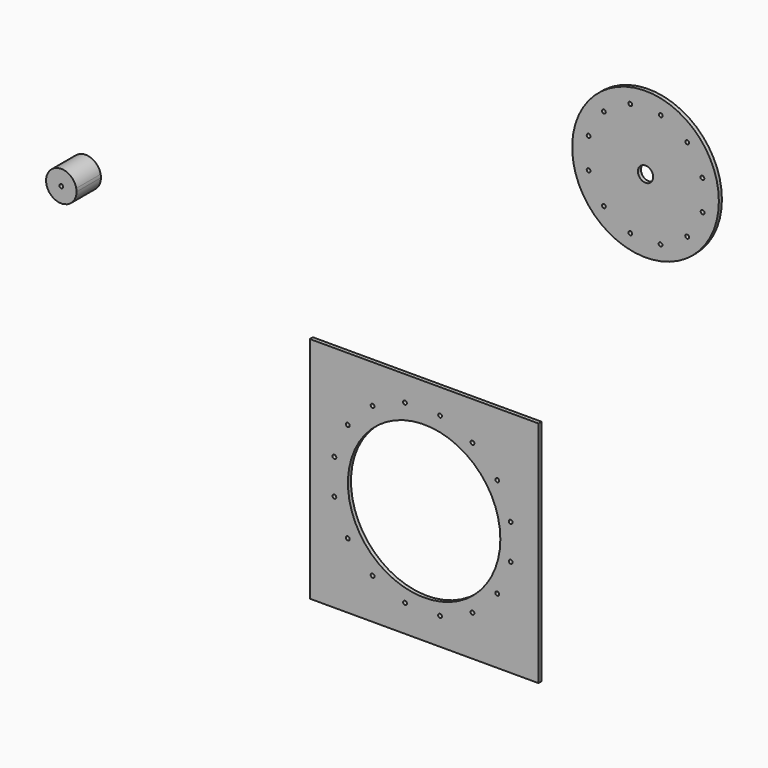
from build123d import *

# Parameters (mm, degrees)
F0_W     = 381
F0_H     = 381
F0_R     = 3.175
F0_R_2   = 127
F1_DEPTH = 6.35
F0_R_3   = 122.2375
F0_R_4   = 12.7
F2_DEPTH = 6.35
F3_DEPTH = 50.8


with BuildPart() as f1:
    # F0 (on Front) → F1 (new body)
    with BuildSketch(Plane.XZ):
        with Locations((0.7829964073, -456.6002925593)):
            Rectangle(F0_W, F0_H)
        with Locations((-126.444780497, -538.0222049332)):
            Circle(F0_R, mode=Mode.SUBTRACT)
        with Locations((-148.8101112058, -484.027520209)):
            Circle(F0_R, mode=Mode.SUBTRACT)
        with Locations((-148.8101112058, -425.5840946062)):
            Circle(F0_R, mode=Mode.SUBTRACT)
        with Locations((-126.444780497, -371.5894098819)):
            Circle(F0_R, mode=Mode.SUBTRACT)
        with Locations((-31.1243532132, -601.7132782016)):
            Circle(F0_R, mode=Mode.SUBTRACT)
        with Locations((27.3190723895, -601.7132782016)):
            Circle(F0_R, mode=Mode.SUBTRACT)
        with Locations((-85.1190379375, -579.3479474927)):
            Circle(F0_R, mode=Mode.SUBTRACT)
        with Locations((81.3137571138, -579.3479474927)):
            Circle(F0_R, mode=Mode.SUBTRACT)
        with Locations((122.6394996733, -538.0222049332)):
            Circle(F0_R, mode=Mode.SUBTRACT)
        with Locations((0.7829964073, -456.6002925593)):
            Circle(F0_R_2, mode=Mode.SUBTRACT)
        with Locations((145.0048303821, -484.027520209)):
            Circle(F0_R, mode=Mode.SUBTRACT)
        with Locations((145.0048303821, -425.5840946062)):
            Circle(F0_R, mode=Mode.SUBTRACT)
        with Locations((-85.1190379375, -330.2636673224)):
            Circle(F0_R, mode=Mode.SUBTRACT)
        with Locations((-31.1243532132, -307.8983366136)):
            Circle(F0_R, mode=Mode.SUBTRACT)
        with Locations((27.3190723895, -307.8983366136)):
            Circle(F0_R, mode=Mode.SUBTRACT)
        with Locations((122.6394996733, -371.5894098819)):
            Circle(F0_R, mode=Mode.SUBTRACT)
        with Locations((81.3137571138, -330.2636673224)):
            Circle(F0_R, mode=Mode.SUBTRACT)
    extrude(amount=F1_DEPTH)


with BuildPart() as f2:
    # F0 (on Front) → F2 (new body)
    with BuildSketch(Plane.XZ):
        with Locations((369.7115465092, 157.6269509957)):
            Circle(F0_R_3)
        with Locations((300.3174648495, 88.2328498944)):
            Circle(F0_R, mode=Mode.SUBTRACT)
        with Locations((274.917460741, 132.2269427787)):
            Circle(F0_R, mode=Mode.SUBTRACT)
        with Locations((344.3115506177, 62.8328581114)):
            Circle(F0_R, mode=Mode.SUBTRACT)
        with Locations((394.7093425007, 62.6030864476)):
            Circle(F0_R, mode=Mode.SUBTRACT)
        with Locations((439.0526575442, 88.6178002691)):
            Circle(F0_R, mode=Mode.SUBTRACT)
        with Locations((369.7115465092, 157.6269509957)):
            Circle(F0_R_4, mode=Mode.SUBTRACT)
        with Locations((464.8548615527, 132.8416648172)):
            Circle(F0_R, mode=Mode.SUBTRACT)
        with Locations((274.917460741, 183.0269592126)):
            Circle(F0_R, mode=Mode.SUBTRACT)
        with Locations((300.3174648495, 227.0210520969)):
            Circle(F0_R, mode=Mode.SUBTRACT)
        with Locations((464.5056370214, 183.0269509957)):
            Circle(F0_R, mode=Mode.SUBTRACT)
        with Locations((344.3115506177, 252.42104388)):
            Circle(F0_R, mode=Mode.SUBTRACT)
        with Locations((395.1115465092, 252.4210415079)):
            Circle(F0_R, mode=Mode.SUBTRACT)
        with Locations((439.1056370214, 227.0210415079)):
            Circle(F0_R, mode=Mode.SUBTRACT)
    extrude(amount=F2_DEPTH)


with BuildPart() as f3:
    # F0 (on Front) → F3 (new body)
    with BuildSketch(Plane.XZ):
        with BuildLine():
            Line((-565.2114957464, -146.3226223595), (-543.4135428894, -141.9867399527))
            ThreePointArc((-543.4135428894, -141.9867399527), (-573.2807831909, -122.0300880097), (-593.2374351339, -151.8973283111))
            Line((-593.2374351339, -151.8973283111), (-571.439482277, -147.5614459043))
            ThreePointArc((-571.439482277, -147.5614459043), (-568.9449007841, -143.8280408667), (-565.2114957464, -146.3226223595))
        make_face()
        with BuildLine():
            ThreePointArc((-542.9254890117, -146.9420341319), (-543.0477969542, -144.4523987676), (-543.4135428894, -141.9867399527))
            Line((-543.4135428894, -141.9867399527), (-565.2114957464, -146.3226223595))
            ThreePointArc((-565.2114957464, -146.3226223595), (-565.1657775045, -146.6308297114), (-565.1504890117, -146.9420341319))
            ThreePointArc((-565.1504890117, -146.9420341319), (-568.0142845911, -150.1017456391), (-571.439482277, -147.5614459043))
            Line((-571.439482277, -147.5614459043), (-593.2374351339, -151.8973283111))
            ThreePointArc((-593.2374351339, -151.8973283111), (-583.7643882016, -167.1113274216), (-566.6048105607, -172.2836849398))
            ThreePointArc((-566.6048105607, -172.2836849398), (-563.0623798009, -171.4703839732), (-559.4981263788, -170.7587859875))
            ThreePointArc((-559.4981263788, -170.7587859875), (-547.4763282267, -161.4497043296), (-542.9254890117, -146.9420341319))
        make_face()
    extrude(amount=F3_DEPTH)


solid = Compound([f1.part, f2.part, f3.part])
